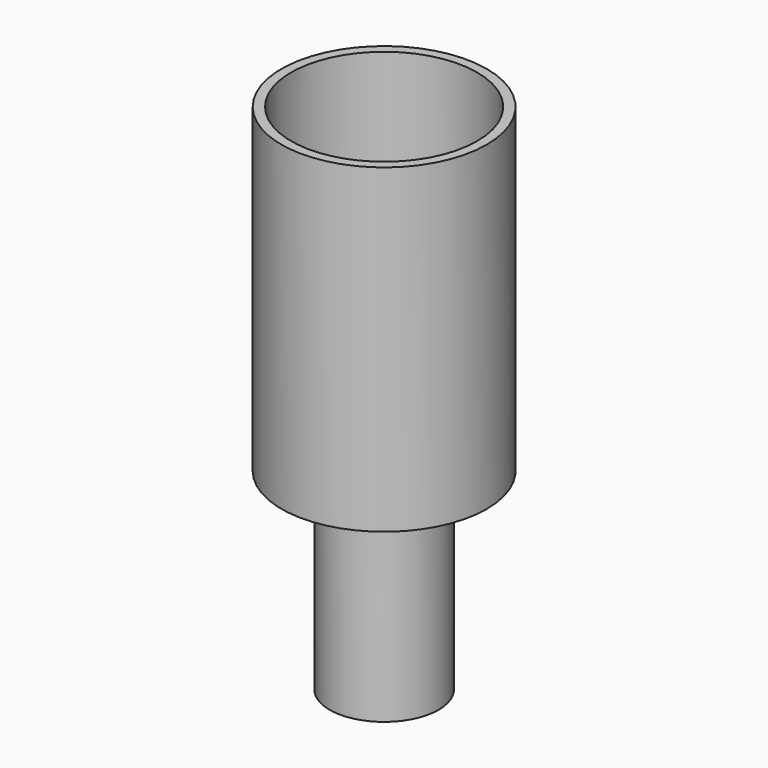
from build123d import *

# Parameters (mm, degrees)
F0_R     = 16
F1_DEPTH = 50
F2_R     = 14.5
F3_DEPTH = 35
F4_R     = 8.5
F5_DEPTH = 30
F6_R     = 6.5
F7_DEPTH = 45.001
F8_R     = 10
F9_DEPTH = 8


with BuildPart() as f1:
    # F0 (on Top) → F1 (new body)
    with BuildSketch(Plane.XY):
        Circle(F0_R)
    extrude(amount=F1_DEPTH)

    # F2 (on face) → F3 (cut)
    with BuildSketch(Plane.XY.offset(50)):
        Circle(F2_R)
    extrude(amount=-F3_DEPTH, mode=Mode.SUBTRACT)

    # F4 (on face) → F5 (join)
    with BuildSketch(Plane(origin=(0, 0, 0), x_dir=(1, 0, 0), z_dir=(0, 0, -1))):
        Circle(F4_R)
        Circle(F4_R)
    extrude(amount=F5_DEPTH)

    # F6 (on face) → F7 (cut, through all)
    with BuildSketch(Plane.XY.offset(15)):
        Circle(F6_R)
    extrude(amount=-F7_DEPTH, mode=Mode.SUBTRACT)

    # F8 (on face) → F9 (cut)
    with BuildSketch(Plane.XY.offset(15)):
        Circle(F8_R)
    extrude(amount=-F9_DEPTH, mode=Mode.SUBTRACT)


solid = f1.part
